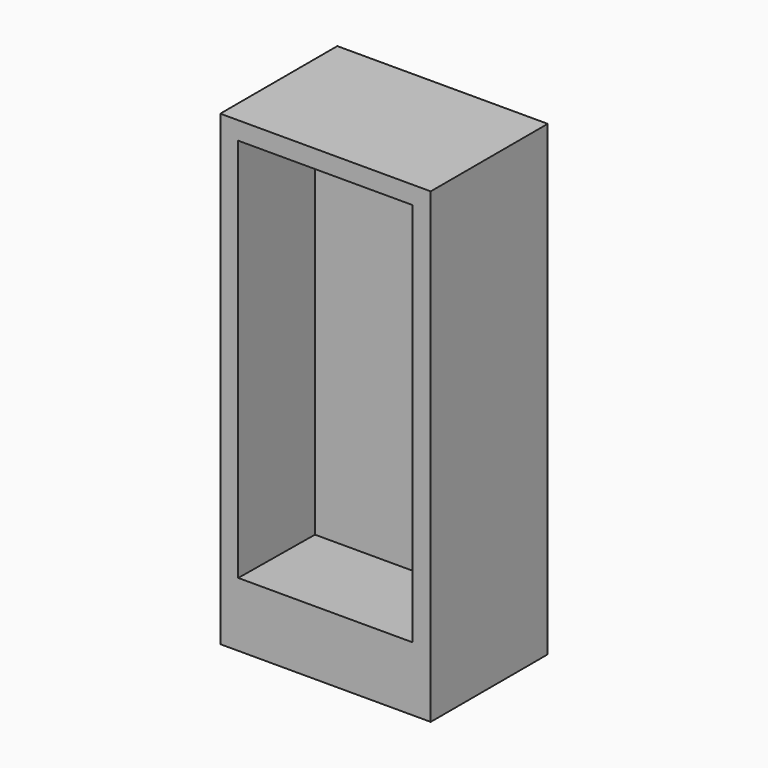
from build123d import *

# Parameters (mm, degrees)
F0_W     = 820
F0_H     = 1820
F1_DEPTH = 570
F2_W     = 680
F2_H     = 1500
F3_DEPTH = 400
F3_TAPER = -3


with BuildPart() as f1:
    # F0 (on Front) → F1 (new body)
    with BuildSketch(Plane.XZ):
        with Locations((410, 910)):
            Rectangle(F0_W, F0_H)
    extrude(amount=F1_DEPTH)

    # F2 (on face) → F3 (cut)
    with BuildSketch(Plane.XZ.offset(570)):
        with Locations((410, 1000)):
            Rectangle(F2_W, F2_H)
    extrude(amount=-F3_DEPTH, taper=F3_TAPER, mode=Mode.SUBTRACT)


solid = f1.part
